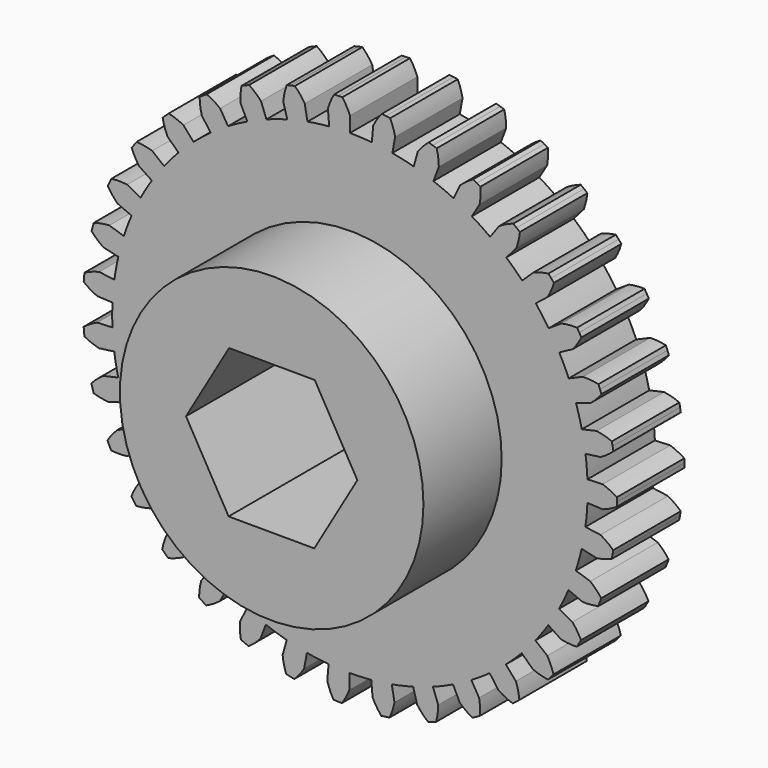
from build123d import *

# Parameters (mm, degrees)
F1_DEPTH = 6.35
F2_R     = 11.43
F3_DEPTH = 7.366
F5_DEPTH = 50.8


with BuildPart() as f1:
    # F0 (on Front) → F1 (new body)
    with BuildSketch(Plane.XZ):
        with BuildLine():
            ThreePointArc((0, 19.05), (-0.247725, 19.590682), (-0.560906, 20.096274))
            ThreePointArc((-0.560906, 20.096274), (-0.71894, 20.091241), (-0.876929, 20.084965))
            ThreePointArc((-0.876929, 20.084965), (-1.034863, 20.077447), (-1.192734, 20.068688))
            ThreePointArc((-1.192734, 20.068688), (-1.460658, 19.537725), (-1.660317, 18.977509))
            Line((-1.660317, 18.977509), (-1.560188, 17.833025))
            ThreePointArc((-1.560188, 17.833025), (-2.380812, 17.742117), (-3.196373, 17.613466))
            Line((-3.196373, 17.613466), (-3.401509, 18.743859))
            ThreePointArc((-3.401509, 18.743859), (-3.741795, 19.231619), (-4.14022, 19.673165))
            ThreePointArc((-4.14022, 19.673165), (-4.294815, 19.639995), (-4.449145, 19.60561))
            ThreePointArc((-4.449145, 19.60561), (-4.603199, 19.570013), (-4.756969, 19.533205))
            ThreePointArc((-4.756969, 19.533205), (-4.92578, 18.962935), (-5.0222, 18.376072))
            Line((-5.0222, 18.376072), (-4.719324, 17.267859))
            ThreePointArc((-4.719324, 17.267859), (-5.510529, 17.031883), (-6.290011, 16.759676))
            Line((-6.290011, 16.759676), (-6.69369, 17.835274))
            ThreePointArc((-6.69369, 17.835274), (-7.115601, 18.254436), (-7.586464, 18.617744))
            ThreePointArc((-7.586464, 18.617744), (-7.732653, 18.557503), (-7.878362, 18.496114))
            ThreePointArc((-7.878362, 18.496114), (-8.023585, 18.433581), (-8.168311, 18.369908))
            ThreePointArc((-8.168311, 18.369908), (-8.232584, 17.778661), (-8.222665, 17.184012))
            Line((-8.222665, 17.184012), (-7.726778, 16.147689))
            ThreePointArc((-7.726778, 16.147689), (-8.463133, 15.774231), (-9.181484, 15.367216))
            Line((-9.181484, 15.367216), (-9.770731, 16.35345))
            ThreePointArc((-9.770731, 16.35345), (-10.260706, 16.69054), (-10.788873, 16.963934))
            ThreePointArc((-10.788873, 16.963934), (-10.921956, 16.878558), (-11.054362, 16.792138))
            ThreePointArc((-11.054362, 16.792138), (-11.186085, 16.70468), (-11.317116, 16.616188))
            ThreePointArc((-11.317116, 16.616188), (-11.274785, 16.022966), (-11.158848, 15.439644))
            Line((-11.158848, 15.439644), (-10.485887, 14.50852))
            ThreePointArc((-10.485887, 14.50852), (-11.143724, 14.009582), (-11.777856, 13.480841))
            Line((-11.777856, 13.480841), (-12.533733, 14.346011))
            ThreePointArc((-12.533733, 14.346011), (-13.076023, 14.590196), (-13.644519, 14.764889))
            ThreePointArc((-13.644519, 14.764889), (-13.760218, 14.657122), (-13.875066, 14.548449))
            ThreePointArc((-13.875066, 14.548449), (-13.989056, 14.438876), (-14.102181, 14.32841))
            ThreePointArc((-14.102181, 14.32841), (-13.954606, 13.752279), (-13.736375, 13.199034))
            Line((-13.736375, 13.199034), (-12.907971, 12.403035))
            ThreePointArc((-12.907971, 12.403035), (-13.466148, 11.794653), (-13.995678, 11.161181))
            Line((-13.995678, 11.161181), (-14.89389, 11.877481))
            ThreePointArc((-14.89389, 11.877481), (-15.471066, 12.020911), (-16.061619, 12.091288))
            ThreePointArc((-16.061619, 12.091288), (-16.156216, 11.964594), (-16.249814, 11.837161))
            ThreePointArc((-16.249814, 11.837161), (-16.342407, 11.708995), (-16.433989, 11.580105))
            ThreePointArc((-16.433989, 11.580105), (-16.185914, 11.039584), (-15.872405, 10.534195))
            Line((-15.872405, 10.534195), (-14.915182, 9.898906))
            ThreePointArc((-14.915182, 9.898906), (-15.355758, 9.200635), (-15.763668, 8.482791))
            Line((-15.763668, 8.482791), (-16.775345, 9.027198))
            ThreePointArc((-16.775345, 9.027198), (-17.368856, 9.065265), (-17.962485, 9.029063))
            ThreePointArc((-17.962485, 9.029063), (-18.03294, 8.887515), (-18.10228, 8.745416))
            ThreePointArc((-18.10228, 8.745416), (-18.1705, 8.602777), (-18.237596, 8.459606))
            ThreePointArc((-18.237596, 8.459606), (-17.896993, 7.972066), (-17.498282, 7.530779))
            Line((-17.498282, 7.530779), (-16.443006, 7.076618))
            ThreePointArc((-16.443006, 7.076618), (-16.751821, 6.3109), (-17.025, 5.531758))
            Line((-17.025, 5.531758), (-18.117627, 5.886774))
            ThreePointArc((-18.117627, 5.886774), (-18.708397, 5.818253), (-19.286022, 5.676637))
            ThreePointArc((-19.286022, 5.676637), (-19.33007, 5.524783), (-19.372923, 5.372587))
            ThreePointArc((-19.372923, 5.372587), (-19.414578, 5.220059), (-19.455031, 5.067208))
            ThreePointArc((-19.455031, 5.067208), (-19.032848, 4.648321), (-18.56175, 4.285318))
            Line((-18.56175, 4.285318), (-17.442339, 4.026881))
            ThreePointArc((-17.442339, 4.026881), (-17.609467, 3.218328), (-17.739135, 2.402929))
            Line((-17.739135, 2.402929), (-18.877593, 2.557144))
            ThreePointArc((-18.877593, 2.557144), (-19.446635, 2.384238), (-19.98969, 2.141759))
            ThreePointArc((-19.98969, 2.141759), (-20.005916, 1.98448), (-20.020905, 1.827078))
            ThreePointArc((-20.020905, 1.827078), (-20.034655, 1.669564), (-20.047166, 1.511946))
            ThreePointArc((-20.047166, 1.511946), (-19.556972, 1.175174), (-19.028628, 0.902122))
            Line((-19.028628, 0.902122), (-17.881061, 0.847718))
            ThreePointArc((-17.881061, 0.847718), (-17.901131, 0.022317), (-17.883119, -0.803132))
            Line((-17.883119, -0.803132), (-19.030818, -0.854675))
            ThreePointArc((-19.030818, -0.854675), (-19.559842, -1.126408), (-20.050873, -1.461957))
            ThreePointArc((-20.050873, -1.461957), (-20.038755, -1.619606), (-20.025398, -1.777154))
            ThreePointArc((-20.025398, -1.777154), (-20.010802, -1.934593), (-19.994968, -2.091911))
            ThreePointArc((-19.994968, -2.091911), (-19.452519, -2.335744), (-18.88391, -2.510068))
            Line((-18.88391, -2.510068), (-17.745071, -2.358692))
            ThreePointArc((-17.745071, -2.358692), (-17.617437, -3.174412), (-17.452325, -3.983379))
            Line((-17.452325, -3.983379), (-18.572377, -4.239024))
            ThreePointArc((-18.572377, -4.239024), (-19.044379, -4.600851), (-19.467605, -5.018685))
            ThreePointArc((-19.467605, -5.018685), (-19.427532, -5.171636), (-19.386258, -5.324267))
            ThreePointArc((-19.386258, -5.324267), (-19.343785, -5.476569), (-19.300115, -5.628533))
            ThreePointArc((-19.300115, -5.628533), (-18.722846, -5.771589), (-18.132248, -5.841582))
            Line((-18.132248, -5.841582), (-17.03874, -5.489292))
            ThreePointArc((-17.03874, -5.489292), (-16.767504, -6.269113), (-16.460599, -7.035598))
            Line((-16.460599, -7.035598), (-17.517004, -7.487127))
            ThreePointArc((-17.517004, -7.487127), (-17.916814, -7.927419), (-18.258632, -8.414107))
            ThreePointArc((-18.258632, -8.414107), (-18.191893, -8.557445), (-18.124029, -8.700254))
            ThreePointArc((-18.124029, -8.700254), (-18.055043, -8.842525), (-17.984941, -8.984249))
            ThreePointArc((-17.984941, -8.984249), (-17.391405, -9.02193), (-16.7978, -8.985344))
            Line((-16.7978, -8.985344), (-15.784769, -8.443461))
            ThreePointArc((-15.784769, -8.443461), (-15.37865, -9.162319), (-14.939816, -9.861686))
            Line((-14.939816, -9.861686), (-15.89862, -10.494587))
            ThreePointArc((-15.89862, -10.494587), (-16.213389, -10.999192), (-16.462811, -11.539094))
            ThreePointArc((-16.462811, -11.539094), (-16.371551, -11.668212), (-16.279278, -11.796608))
            ThreePointArc((-16.279278, -11.796608), (-16.185998, -11.924274), (-16.091716, -12.051203))
            ThreePointArc((-16.091716, -12.051203), (-15.50099, -11.9823), (-14.923458, -11.840308))
            Line((-14.923458, -11.840308), (-14.023463, -11.126251))
            ThreePointArc((-14.023463, -11.126251), (-13.495514, -11.761041), (-12.938855, -12.370812))
            Line((-12.938855, -12.370812), (-13.769242, -13.164743))
            ThreePointArc((-13.769242, -13.164743), (-13.988851, -13.717443), (-14.137862, -14.293204))
            ThreePointArc((-14.137862, -14.293204), (-14.025014, -14.403952), (-13.911297, -14.513809))
            ThreePointArc((-13.911297, -14.513809), (-13.796721, -14.622768), (-13.68129, -14.730822))
            ThreePointArc((-13.68129, -14.730822), (-13.112361, -14.557548), (-12.569463, -14.314716))
            Line((-12.569463, -14.314716), (-11.811432, -13.451433))
            ThreePointArc((-11.811432, -13.451433), (-11.17862, -13.981753), (-10.522029, -14.48233))
            Line((-10.522029, -14.48233), (-11.197309, -15.411774))
            ThreePointArc((-11.197309, -15.411774), (-11.3147, -15.994804), (-11.358511, -16.587919))
            ThreePointArc((-11.358511, -16.587919), (-11.227701, -16.676737), (-11.096196, -16.764524))
            ThreePointArc((-11.096196, -16.764524), (-10.964006, -16.851274), (-10.831137, -16.936981))
            ThreePointArc((-10.831137, -16.936981), (-10.302289, -16.664904), (-9.811475, -16.329037))
            Line((-9.811475, -16.329037), (-9.219771, -15.344276))
            ThreePointArc((-9.219771, -15.344276), (-8.502437, -15.75308), (-7.767015, -16.128374))
            Line((-7.767015, -16.128374), (-8.265485, -17.163457))
            ThreePointArc((-8.265485, -17.163457), (-8.276886, -17.758079), (-8.214088, -18.349485))
            ThreePointArc((-8.214088, -18.349485), (-8.069521, -18.413519), (-7.924455, -18.476414))
            ThreePointArc((-7.924455, -18.476414), (-7.778898, -18.538165), (-7.632861, -18.598771))
            ThreePointArc((-7.632861, -18.598771), (-7.161094, -18.236637), (-6.738139, -17.818529))
            Line((-6.738139, -17.818529), (-6.331779, -16.74394))
            ThreePointArc((-6.331779, -16.74394), (-5.552978, -17.018091), (-4.762364, -17.256038))
            Line((-4.762364, -17.256038), (-5.068002, -18.363492))
            ThreePointArc((-5.068002, -18.363492), (-4.973046, -18.950594), (-4.805657, -19.521283))
            ThreePointArc((-4.805657, -19.521283), (-4.651979, -19.558475), (-4.498014, -19.594456))
            ThreePointArc((-4.498014, -19.594456), (-4.343771, -19.629225), (-4.189259, -19.662781))
            ThreePointArc((-4.189259, -19.662781), (-3.789734, -19.22223), (-3.448233, -18.735319))
            Line((-3.448233, -18.735319), (-3.240279, -17.605441))
            ThreePointArc((-3.240279, -17.605441), (-2.425042, -17.736125), (-1.604646, -17.82908))
            Line((-1.604646, -17.82908), (-1.707629, -18.97331))
            ThreePointArc((-1.707629, -18.97331), (-1.509367, -19.534022), (-1.242768, -20.065651))
            ThreePointArc((-1.242768, -20.065651), (-1.08492, -20.074805), (-0.927004, -20.082716))
            ThreePointArc((-0.927004, -20.082716), (-0.769031, -20.089386), (-0.611011, -20.094813))
            ThreePointArc((-0.611011, -20.094813), (-0.29657, -19.590004), (-0.047498, -19.049941))
            Line((-0.047498, -19.049941), (-0.044633, -17.901089))
            ThreePointArc((-0.044633, -17.901089), (0.780837, -17.884107), (1.604646, -17.82908))
            Line((1.604646, -17.82908), (1.707629, -18.97331))
            ThreePointArc((1.707629, -18.97331), (2.002823, -19.48961), (2.360064, -19.965093))
            ThreePointArc((2.360064, -19.965093), (2.51701, -19.945914), (2.673801, -19.925502))
            ThreePointArc((2.673801, -19.925502), (2.830426, -19.903857), (2.986876, -19.880981))
            ThreePointArc((2.986876, -19.880981), (3.206126, -19.328139), (3.354764, -18.752281))
            Line((3.354764, -18.752281), (3.152447, -17.621381))
            ThreePointArc((3.152447, -17.621381), (3.961619, -17.457278), (4.762364, -17.256038))
            Line((4.762364, -17.256038), (5.068002, -18.363492))
            ThreePointArc((5.068002, -18.363492), (5.450641, -18.818786), (5.887042, -19.22284))
            ThreePointArc((5.887042, -19.22284), (6.038041, -19.175946), (6.188667, -19.127865))
            ThreePointArc((6.188667, -19.127865), (6.338911, -19.078602), (6.488762, -19.028158))
            ThreePointArc((6.488762, -19.028158), (6.605775, -18.445052), (6.6492, -17.851908))
            Line((6.6492, -17.851908), (6.248205, -16.775307))
            ThreePointArc((6.248205, -16.775307), (7.015072, -16.469358), (7.767015, -16.128374))
            Line((7.767015, -16.128374), (8.265485, -17.163457))
            ThreePointArc((8.265485, -17.163457), (8.723271, -17.543111), (9.224805, -17.862749))
            ThreePointArc((9.224805, -17.862749), (9.365005, -17.789646), (9.504625, -17.715443))
            ThreePointArc((9.504625, -17.715443), (9.643658, -17.640145), (9.782093, -17.563755))
            ThreePointArc((9.782093, -17.563755), (9.793108, -16.969126), (9.729926, -16.37776))
            Line((9.729926, -16.37776), (9.14314, -15.39006))
            ThreePointArc((9.14314, -15.39006), (9.843054, -14.952099), (10.522029, -14.48233))
            Line((10.522029, -14.48233), (11.197309, -15.411774))
            ThreePointArc((11.197309, -15.411774), (11.715528, -15.703586), (12.266076, -15.928535))
            ThreePointArc((12.266076, -15.928535), (12.390969, -15.831573), (12.515097, -15.733633))
            ThreePointArc((12.515097, -15.733633), (12.638449, -15.634719), (12.761021, -15.534838))
            ThreePointArc((12.761021, -15.534838), (12.665684, -14.947798), (12.497925, -14.377218))
            Line((12.497925, -14.377218), (11.744207, -13.510165))
            ThreePointArc((11.744207, -13.510165), (12.354672, -12.954267), (12.938855, -12.370812))
            Line((12.938855, -12.370812), (13.769242, -13.164743))
            ThreePointArc((13.769242, -13.164743), (14.331238, -13.359334), (14.913105, -13.482364))
            ThreePointArc((14.913105, -13.482364), (15.018678, -13.36466), (15.123322, -13.24613))
            ThreePointArc((15.123322, -13.24613), (15.227031, -13.12678), (15.329798, -13.006618))
            ThreePointArc((15.329798, -13.006618), (15.131173, -12.446036), (14.864229, -11.914579))
            Line((14.864229, -11.914579), (13.967806, -11.196042))
            ThreePointArc((13.967806, -11.196042), (14.469201, -10.540075), (14.939816, -9.861686))
            Line((14.939816, -9.861686), (15.89862, -10.494587))
            ThreePointArc((15.89862, -10.494587), (16.48633, -10.585703), (17.080814, -10.602859))
            ThreePointArc((17.080814, -10.602859), (17.163674, -10.468196), (17.245472, -10.332886))
            ThreePointArc((17.245472, -10.332886), (17.326204, -10.196936), (17.405863, -10.060356))
            ThreePointArc((17.405863, -10.060356), (17.110334, -9.544247), (16.752785, -9.068996))
            Line((16.752785, -9.068996), (15.742468, -8.522069))
            ThreePointArc((15.742468, -8.522069), (16.118678, -7.787116), (16.460599, -7.035598))
            Line((16.460599, -7.035598), (17.517004, -7.487127))
            ThreePointArc((17.517004, -7.487127), (18.111539, -7.471838), (18.699532, -7.38257))
            ThreePointArc((18.699532, -7.38257), (18.757015, -7.235276), (18.813338, -7.087534))
            ThreePointArc((18.813338, -7.087534), (18.868498, -6.939354), (18.92249, -6.790745))
            ThreePointArc((18.92249, -6.790745), (18.539556, -6.335699), (18.102893, -5.931929))
            Line((18.102893, -5.931929), (17.011155, -5.57419))
            ThreePointArc((17.011155, -5.57419), (17.250088, -4.783873), (17.452325, -3.983379))
            Line((17.452325, -3.983379), (18.572377, -4.239024))
            ThreePointArc((18.572377, -4.239024), (19.154627, -4.117823), (19.717232, -3.924999))
            ThreePointArc((19.717232, -3.924999), (19.747491, -3.769807), (19.776528, -3.614383))
            ThreePointArc((19.776528, -3.614383), (19.804343, -3.458735), (19.830932, -3.302873))
            ThreePointArc((19.830932, -3.302873), (19.3729, -2.923516), (18.871158, -2.604204))
            Line((18.871158, -2.604204), (17.733088, -2.447151))
            ThreePointArc((17.733088, -2.447151), (17.827065, -1.626872), (17.883119, -0.803132))
            Line((17.883119, -0.803132), (19.030818, -0.854675))
            ThreePointArc((19.030818, -0.854675), (19.58207, -0.631457), (20.101203, -0.341275))
            ThreePointArc((20.101203, -0.341275), (20.103266, -0.183175), (20.104084, -0.025063))
            ThreePointArc((20.104084, -0.025063), (20.10366, 0.13305), (20.101992, 0.291155))
            ThreePointArc((20.101992, 0.291155), (19.583584, 0.582631), (19.03289, 0.807222))
            Line((19.03289, 0.807222), (17.885066, 0.758541))
            ThreePointArc((17.885066, 0.758541), (17.831066, 1.582418), (17.739135, 2.402929))
            Line((17.739135, 2.402929), (18.877593, 2.557144))
            ThreePointArc((18.877593, 2.557144), (19.380129, 2.875204), (19.839105, 3.253418))
            ThreePointArc((19.839105, 3.253418), (19.812905, 3.409346), (19.785479, 3.565063))
            ThreePointArc((19.785479, 3.565063), (19.756829, 3.720559), (19.726957, 3.875825))
            ThreePointArc((19.726957, 3.875825), (19.164835, 4.070051), (18.582888, 4.192704))
            Line((18.582888, 4.192704), (17.462203, 3.939853))
            ThreePointArc((17.462203, 3.939853), (17.261962, 4.740848), (17.025, 5.531758))
            Line((17.025, 5.531758), (18.117627, 5.886774))
            ThreePointArc((18.117627, 5.886774), (18.555295, 6.289454), (18.939363, 6.743543))
            ThreePointArc((18.939363, 6.743543), (18.885741, 6.892287), (18.830951, 7.040604))
            ThreePointArc((18.830951, 7.040604), (18.774997, 7.188486), (18.717881, 7.335923))
            ThreePointArc((18.717881, 7.335923), (18.130112, 7.426657), (17.535617, 7.443428))
            Line((17.535617, 7.443428), (16.47809, 6.994534))
            ThreePointArc((16.47809, 6.994534), (16.138044, 7.746903), (15.763668, 8.482791))
            Line((15.763668, 8.482791), (16.775345, 9.027198))
            ThreePointArc((16.775345, 9.027198), (17.134078, 9.501556), (17.430893, 10.016926))
            ThreePointArc((17.430893, 10.016926), (17.351574, 10.153704), (17.271182, 10.289855))
            ThreePointArc((17.271182, 10.289855), (17.189721, 10.425369), (17.107197, 10.560238))
            ThreePointArc((17.107197, 10.560238), (16.512673, 10.544564), (15.924737, 10.454914))
            Line((15.924737, 10.454914), (14.964358, 9.824406))
            ThreePointArc((14.964358, 9.824406), (14.495436, 10.503966), (13.995678, 11.161181))
            Line((13.995678, 11.161181), (14.89389, 11.877481))
            ThreePointArc((14.89389, 11.877481), (15.162158, 12.40827), (15.36218, 12.968356))
            ThreePointArc((15.36218, 12.968356), (15.259713, 13.088773), (15.156302, 13.208381))
            ThreePointArc((15.156302, 13.208381), (15.051954, 13.327172), (14.946674, 13.445139))
            ThreePointArc((14.946674, 13.445139), (14.364503, 13.32356), (13.802023, 13.130371))
            Line((13.802023, 13.130371), (12.969659, 12.338513))
            ThreePointArc((12.969659, 12.338513), (12.386933, 12.923423), (11.777856, 13.480841))
            Line((11.777856, 13.480841), (12.533733, 14.346011))
            ThreePointArc((12.533733, 14.346011), (12.702914, 14.916172), (12.799714, 15.502972))
            ThreePointArc((12.799714, 15.502972), (12.677393, 15.603158), (12.554287, 15.70238))
            ThreePointArc((12.554287, 15.70238), (12.430404, 15.800629), (12.305753, 15.897902))
            ThreePointArc((12.305753, 15.897902), (11.754646, 15.674326), (11.235701, 15.383807))
            Line((11.235701, 15.383807), (10.558105, 14.45605))
            ThreePointArc((10.558105, 14.45605), (9.880304, 14.927511), (9.181484, 15.367216))
            Line((9.181484, 15.367216), (9.770731, 16.35345))
            ThreePointArc((9.770731, 16.35345), (9.835388, 16.944656), (9.825855, 17.53931))
            ThreePointArc((9.825855, 17.53931), (9.68761, 17.616045), (9.548766, 17.69169))
            ThreePointArc((9.548766, 17.69169), (9.409331, 17.766241), (9.269314, 17.839693))
            ThreePointArc((9.269314, 17.839693), (8.766985, 17.521307), (8.308254, 17.142795))
            Line((8.308254, 17.142795), (7.807205, 16.108958))
            ThreePointArc((7.807205, 16.108958), (7.056113, 16.451816), (6.290011, 16.759676))
            Line((6.290011, 16.759676), (6.69369, 17.835274))
            ThreePointArc((6.69369, 17.835274), (6.651744, 18.428524), (6.536185, 19.011921))
            ThreePointArc((6.536185, 19.011921), (6.38646, 19.062738), (6.23634, 19.112376))
            ThreePointArc((6.23634, 19.112376), (6.085834, 19.160831), (5.934952, 19.208102))
            ThreePointArc((5.934952, 19.208102), (5.497545, 18.805137), (5.113772, 18.350799))
            Line((5.113772, 18.350799), (4.805374, 17.244111))
            ThreePointArc((4.805374, 17.244111), (4.005133, 17.447346), (3.196373, 17.613466))
            Line((3.196373, 17.613466), (3.401509, 18.743859))
            ThreePointArc((3.401509, 18.743859), (3.254307, 19.320085), (3.036436, 19.873472))
            ThreePointArc((3.036436, 19.873472), (2.880044, 19.896738), (2.723473, 19.918773))
            ThreePointArc((2.723473, 19.918773), (2.566734, 19.939577), (2.409836, 19.959146))
            ThreePointArc((2.409836, 19.959146), (2.051411, 19.484556), (1.75493, 18.968994))
            Line((1.75493, 18.968994), (1.649095, 17.825023))
            ThreePointArc((1.649095, 17.825023), (0.825425, 17.882104), (0, 17.901144))
            Line((0, 17.901144), (0, 19.05))
        make_face()
        with BuildLine():
            ThreePointArc((0, 19.05), (-0.247725, 19.590682), (-0.560906, 20.096274))
            ThreePointArc((-0.560906, 20.096274), (-0.71894, 20.091241), (-0.876929, 20.084965))
            ThreePointArc((-0.876929, 20.084965), (-1.034863, 20.077447), (-1.192734, 20.068688))
            ThreePointArc((-1.192734, 20.068688), (-1.460658, 19.537725), (-1.660317, 18.977509))
            Line((-1.660317, 18.977509), (-1.560188, 17.833025))
            ThreePointArc((-1.560188, 17.833025), (-2.380812, 17.742117), (-3.196373, 17.613466))
            Line((-3.196373, 17.613466), (-3.401509, 18.743859))
            ThreePointArc((-3.401509, 18.743859), (-3.741795, 19.231619), (-4.14022, 19.673165))
            ThreePointArc((-4.14022, 19.673165), (-4.294815, 19.639995), (-4.449145, 19.60561))
            ThreePointArc((-4.449145, 19.60561), (-4.603199, 19.570013), (-4.756969, 19.533205))
            ThreePointArc((-4.756969, 19.533205), (-4.92578, 18.962935), (-5.0222, 18.376072))
            Line((-5.0222, 18.376072), (-4.719324, 17.267859))
            ThreePointArc((-4.719324, 17.267859), (-5.510529, 17.031883), (-6.290011, 16.759676))
            Line((-6.290011, 16.759676), (-6.69369, 17.835274))
            ThreePointArc((-6.69369, 17.835274), (-7.115601, 18.254436), (-7.586464, 18.617744))
            ThreePointArc((-7.586464, 18.617744), (-7.732653, 18.557503), (-7.878362, 18.496114))
            ThreePointArc((-7.878362, 18.496114), (-8.023585, 18.433581), (-8.168311, 18.369908))
            ThreePointArc((-8.168311, 18.369908), (-8.232584, 17.778661), (-8.222665, 17.184012))
            Line((-8.222665, 17.184012), (-7.726778, 16.147689))
            ThreePointArc((-7.726778, 16.147689), (-8.463133, 15.774231), (-9.181484, 15.367216))
            Line((-9.181484, 15.367216), (-9.770731, 16.35345))
            ThreePointArc((-9.770731, 16.35345), (-10.260706, 16.69054), (-10.788873, 16.963934))
            ThreePointArc((-10.788873, 16.963934), (-10.921956, 16.878558), (-11.054362, 16.792138))
            ThreePointArc((-11.054362, 16.792138), (-11.186085, 16.70468), (-11.317116, 16.616188))
            ThreePointArc((-11.317116, 16.616188), (-11.274785, 16.022966), (-11.158848, 15.439644))
            Line((-11.158848, 15.439644), (-10.485887, 14.50852))
            ThreePointArc((-10.485887, 14.50852), (-11.143724, 14.009582), (-11.777856, 13.480841))
            Line((-11.777856, 13.480841), (-12.533733, 14.346011))
            ThreePointArc((-12.533733, 14.346011), (-13.076023, 14.590196), (-13.644519, 14.764889))
            ThreePointArc((-13.644519, 14.764889), (-13.760218, 14.657122), (-13.875066, 14.548449))
            ThreePointArc((-13.875066, 14.548449), (-13.989056, 14.438876), (-14.102181, 14.32841))
            ThreePointArc((-14.102181, 14.32841), (-13.954606, 13.752279), (-13.736375, 13.199034))
            Line((-13.736375, 13.199034), (-12.907971, 12.403035))
            ThreePointArc((-12.907971, 12.403035), (-13.466148, 11.794653), (-13.995678, 11.161181))
            Line((-13.995678, 11.161181), (-14.89389, 11.877481))
            ThreePointArc((-14.89389, 11.877481), (-15.471066, 12.020911), (-16.061619, 12.091288))
            ThreePointArc((-16.061619, 12.091288), (-16.156216, 11.964594), (-16.249814, 11.837161))
            ThreePointArc((-16.249814, 11.837161), (-16.342407, 11.708995), (-16.433989, 11.580105))
            ThreePointArc((-16.433989, 11.580105), (-16.185914, 11.039584), (-15.872405, 10.534195))
            Line((-15.872405, 10.534195), (-14.915182, 9.898906))
            ThreePointArc((-14.915182, 9.898906), (-15.355758, 9.200635), (-15.763668, 8.482791))
            Line((-15.763668, 8.482791), (-16.775345, 9.027198))
            ThreePointArc((-16.775345, 9.027198), (-17.368856, 9.065265), (-17.962485, 9.029063))
            ThreePointArc((-17.962485, 9.029063), (-18.03294, 8.887515), (-18.10228, 8.745416))
            ThreePointArc((-18.10228, 8.745416), (-18.1705, 8.602777), (-18.237596, 8.459606))
            ThreePointArc((-18.237596, 8.459606), (-17.896993, 7.972066), (-17.498282, 7.530779))
            Line((-17.498282, 7.530779), (-16.443006, 7.076618))
            ThreePointArc((-16.443006, 7.076618), (-16.751821, 6.3109), (-17.025, 5.531758))
            Line((-17.025, 5.531758), (-18.117627, 5.886774))
            ThreePointArc((-18.117627, 5.886774), (-18.708397, 5.818253), (-19.286022, 5.676637))
            ThreePointArc((-19.286022, 5.676637), (-19.33007, 5.524783), (-19.372923, 5.372587))
            ThreePointArc((-19.372923, 5.372587), (-19.414578, 5.220059), (-19.455031, 5.067208))
            ThreePointArc((-19.455031, 5.067208), (-19.032848, 4.648321), (-18.56175, 4.285318))
            Line((-18.56175, 4.285318), (-17.442339, 4.026881))
            ThreePointArc((-17.442339, 4.026881), (-17.609467, 3.218328), (-17.739135, 2.402929))
            Line((-17.739135, 2.402929), (-18.877593, 2.557144))
            ThreePointArc((-18.877593, 2.557144), (-19.446635, 2.384238), (-19.98969, 2.141759))
            ThreePointArc((-19.98969, 2.141759), (-20.005916, 1.98448), (-20.020905, 1.827078))
            ThreePointArc((-20.020905, 1.827078), (-20.034655, 1.669564), (-20.047166, 1.511946))
            ThreePointArc((-20.047166, 1.511946), (-19.556972, 1.175174), (-19.028628, 0.902122))
            Line((-19.028628, 0.902122), (-17.881061, 0.847718))
            ThreePointArc((-17.881061, 0.847718), (-17.901131, 0.022317), (-17.883119, -0.803132))
            Line((-17.883119, -0.803132), (-19.030818, -0.854675))
            ThreePointArc((-19.030818, -0.854675), (-19.559842, -1.126408), (-20.050873, -1.461957))
            ThreePointArc((-20.050873, -1.461957), (-20.038755, -1.619606), (-20.025398, -1.777154))
            ThreePointArc((-20.025398, -1.777154), (-20.010802, -1.934593), (-19.994968, -2.091911))
            ThreePointArc((-19.994968, -2.091911), (-19.452519, -2.335744), (-18.88391, -2.510068))
            Line((-18.88391, -2.510068), (-17.745071, -2.358692))
            ThreePointArc((-17.745071, -2.358692), (-17.617437, -3.174412), (-17.452325, -3.983379))
            Line((-17.452325, -3.983379), (-18.572377, -4.239024))
            ThreePointArc((-18.572377, -4.239024), (-19.044379, -4.600851), (-19.467605, -5.018685))
            ThreePointArc((-19.467605, -5.018685), (-19.427532, -5.171636), (-19.386258, -5.324267))
            ThreePointArc((-19.386258, -5.324267), (-19.343785, -5.476569), (-19.300115, -5.628533))
            ThreePointArc((-19.300115, -5.628533), (-18.722846, -5.771589), (-18.132248, -5.841582))
            Line((-18.132248, -5.841582), (-17.03874, -5.489292))
            ThreePointArc((-17.03874, -5.489292), (-16.767504, -6.269113), (-16.460599, -7.035598))
            Line((-16.460599, -7.035598), (-17.517004, -7.487127))
            ThreePointArc((-17.517004, -7.487127), (-17.916814, -7.927419), (-18.258632, -8.414107))
            ThreePointArc((-18.258632, -8.414107), (-18.191893, -8.557445), (-18.124029, -8.700254))
            ThreePointArc((-18.124029, -8.700254), (-18.055043, -8.842525), (-17.984941, -8.984249))
            ThreePointArc((-17.984941, -8.984249), (-17.391405, -9.02193), (-16.7978, -8.985344))
            Line((-16.7978, -8.985344), (-15.784769, -8.443461))
            ThreePointArc((-15.784769, -8.443461), (-15.37865, -9.162319), (-14.939816, -9.861686))
            Line((-14.939816, -9.861686), (-15.89862, -10.494587))
            ThreePointArc((-15.89862, -10.494587), (-16.213389, -10.999192), (-16.462811, -11.539094))
            ThreePointArc((-16.462811, -11.539094), (-16.371551, -11.668212), (-16.279278, -11.796608))
            ThreePointArc((-16.279278, -11.796608), (-16.185998, -11.924274), (-16.091716, -12.051203))
            ThreePointArc((-16.091716, -12.051203), (-15.50099, -11.9823), (-14.923458, -11.840308))
            Line((-14.923458, -11.840308), (-14.023463, -11.126251))
            ThreePointArc((-14.023463, -11.126251), (-13.495514, -11.761041), (-12.938855, -12.370812))
            Line((-12.938855, -12.370812), (-13.769242, -13.164743))
            ThreePointArc((-13.769242, -13.164743), (-13.988851, -13.717443), (-14.137862, -14.293204))
            ThreePointArc((-14.137862, -14.293204), (-14.025014, -14.403952), (-13.911297, -14.513809))
            ThreePointArc((-13.911297, -14.513809), (-13.796721, -14.622768), (-13.68129, -14.730822))
            ThreePointArc((-13.68129, -14.730822), (-13.112361, -14.557548), (-12.569463, -14.314716))
            Line((-12.569463, -14.314716), (-11.811432, -13.451433))
            ThreePointArc((-11.811432, -13.451433), (-11.17862, -13.981753), (-10.522029, -14.48233))
            Line((-10.522029, -14.48233), (-11.197309, -15.411774))
            ThreePointArc((-11.197309, -15.411774), (-11.3147, -15.994804), (-11.358511, -16.587919))
            ThreePointArc((-11.358511, -16.587919), (-11.227701, -16.676737), (-11.096196, -16.764524))
            ThreePointArc((-11.096196, -16.764524), (-10.964006, -16.851274), (-10.831137, -16.936981))
            ThreePointArc((-10.831137, -16.936981), (-10.302289, -16.664904), (-9.811475, -16.329037))
            Line((-9.811475, -16.329037), (-9.219771, -15.344276))
            ThreePointArc((-9.219771, -15.344276), (-8.502437, -15.75308), (-7.767015, -16.128374))
            Line((-7.767015, -16.128374), (-8.265485, -17.163457))
            ThreePointArc((-8.265485, -17.163457), (-8.276886, -17.758079), (-8.214088, -18.349485))
            ThreePointArc((-8.214088, -18.349485), (-8.069521, -18.413519), (-7.924455, -18.476414))
            ThreePointArc((-7.924455, -18.476414), (-7.778898, -18.538165), (-7.632861, -18.598771))
            ThreePointArc((-7.632861, -18.598771), (-7.161094, -18.236637), (-6.738139, -17.818529))
            Line((-6.738139, -17.818529), (-6.331779, -16.74394))
            ThreePointArc((-6.331779, -16.74394), (-5.552978, -17.018091), (-4.762364, -17.256038))
            Line((-4.762364, -17.256038), (-5.068002, -18.363492))
            ThreePointArc((-5.068002, -18.363492), (-4.973046, -18.950594), (-4.805657, -19.521283))
            ThreePointArc((-4.805657, -19.521283), (-4.651979, -19.558475), (-4.498014, -19.594456))
            ThreePointArc((-4.498014, -19.594456), (-4.343771, -19.629225), (-4.189259, -19.662781))
            ThreePointArc((-4.189259, -19.662781), (-3.789734, -19.22223), (-3.448233, -18.735319))
            Line((-3.448233, -18.735319), (-3.240279, -17.605441))
            ThreePointArc((-3.240279, -17.605441), (-2.425042, -17.736125), (-1.604646, -17.82908))
            Line((-1.604646, -17.82908), (-1.707629, -18.97331))
            ThreePointArc((-1.707629, -18.97331), (-1.509367, -19.534022), (-1.242768, -20.065651))
            ThreePointArc((-1.242768, -20.065651), (-1.08492, -20.074805), (-0.927004, -20.082716))
            ThreePointArc((-0.927004, -20.082716), (-0.769031, -20.089386), (-0.611011, -20.094813))
            ThreePointArc((-0.611011, -20.094813), (-0.29657, -19.590004), (-0.047498, -19.049941))
            Line((-0.047498, -19.049941), (-0.044633, -17.901089))
            ThreePointArc((-0.044633, -17.901089), (0.780837, -17.884107), (1.604646, -17.82908))
            Line((1.604646, -17.82908), (1.707629, -18.97331))
            ThreePointArc((1.707629, -18.97331), (2.002823, -19.48961), (2.360064, -19.965093))
            ThreePointArc((2.360064, -19.965093), (2.51701, -19.945914), (2.673801, -19.925502))
            ThreePointArc((2.673801, -19.925502), (2.830426, -19.903857), (2.986876, -19.880981))
            ThreePointArc((2.986876, -19.880981), (3.206126, -19.328139), (3.354764, -18.752281))
            Line((3.354764, -18.752281), (3.152447, -17.621381))
            ThreePointArc((3.152447, -17.621381), (3.961619, -17.457278), (4.762364, -17.256038))
            Line((4.762364, -17.256038), (5.068002, -18.363492))
            ThreePointArc((5.068002, -18.363492), (5.450641, -18.818786), (5.887042, -19.22284))
            ThreePointArc((5.887042, -19.22284), (6.038041, -19.175946), (6.188667, -19.127865))
            ThreePointArc((6.188667, -19.127865), (6.338911, -19.078602), (6.488762, -19.028158))
            ThreePointArc((6.488762, -19.028158), (6.605775, -18.445052), (6.6492, -17.851908))
            Line((6.6492, -17.851908), (6.248205, -16.775307))
            ThreePointArc((6.248205, -16.775307), (7.015072, -16.469358), (7.767015, -16.128374))
            Line((7.767015, -16.128374), (8.265485, -17.163457))
            ThreePointArc((8.265485, -17.163457), (8.723271, -17.543111), (9.224805, -17.862749))
            ThreePointArc((9.224805, -17.862749), (9.365005, -17.789646), (9.504625, -17.715443))
            ThreePointArc((9.504625, -17.715443), (9.643658, -17.640145), (9.782093, -17.563755))
            ThreePointArc((9.782093, -17.563755), (9.793108, -16.969126), (9.729926, -16.37776))
            Line((9.729926, -16.37776), (9.14314, -15.39006))
            ThreePointArc((9.14314, -15.39006), (9.843054, -14.952099), (10.522029, -14.48233))
            Line((10.522029, -14.48233), (11.197309, -15.411774))
            ThreePointArc((11.197309, -15.411774), (11.715528, -15.703586), (12.266076, -15.928535))
            ThreePointArc((12.266076, -15.928535), (12.390969, -15.831573), (12.515097, -15.733633))
            ThreePointArc((12.515097, -15.733633), (12.638449, -15.634719), (12.761021, -15.534838))
            ThreePointArc((12.761021, -15.534838), (12.665684, -14.947798), (12.497925, -14.377218))
            Line((12.497925, -14.377218), (11.744207, -13.510165))
            ThreePointArc((11.744207, -13.510165), (12.354672, -12.954267), (12.938855, -12.370812))
            Line((12.938855, -12.370812), (13.769242, -13.164743))
            ThreePointArc((13.769242, -13.164743), (14.331238, -13.359334), (14.913105, -13.482364))
            ThreePointArc((14.913105, -13.482364), (15.018678, -13.36466), (15.123322, -13.24613))
            ThreePointArc((15.123322, -13.24613), (15.227031, -13.12678), (15.329798, -13.006618))
            ThreePointArc((15.329798, -13.006618), (15.131173, -12.446036), (14.864229, -11.914579))
            Line((14.864229, -11.914579), (13.967806, -11.196042))
            ThreePointArc((13.967806, -11.196042), (14.469201, -10.540075), (14.939816, -9.861686))
            Line((14.939816, -9.861686), (15.89862, -10.494587))
            ThreePointArc((15.89862, -10.494587), (16.48633, -10.585703), (17.080814, -10.602859))
            ThreePointArc((17.080814, -10.602859), (17.163674, -10.468196), (17.245472, -10.332886))
            ThreePointArc((17.245472, -10.332886), (17.326204, -10.196936), (17.405863, -10.060356))
            ThreePointArc((17.405863, -10.060356), (17.110334, -9.544247), (16.752785, -9.068996))
            Line((16.752785, -9.068996), (15.742468, -8.522069))
            ThreePointArc((15.742468, -8.522069), (16.118678, -7.787116), (16.460599, -7.035598))
            Line((16.460599, -7.035598), (17.517004, -7.487127))
            ThreePointArc((17.517004, -7.487127), (18.111539, -7.471838), (18.699532, -7.38257))
            ThreePointArc((18.699532, -7.38257), (18.757015, -7.235276), (18.813338, -7.087534))
            ThreePointArc((18.813338, -7.087534), (18.868498, -6.939354), (18.92249, -6.790745))
            ThreePointArc((18.92249, -6.790745), (18.539556, -6.335699), (18.102893, -5.931929))
            Line((18.102893, -5.931929), (17.011155, -5.57419))
            ThreePointArc((17.011155, -5.57419), (17.250088, -4.783873), (17.452325, -3.983379))
            Line((17.452325, -3.983379), (18.572377, -4.239024))
            ThreePointArc((18.572377, -4.239024), (19.154627, -4.117823), (19.717232, -3.924999))
            ThreePointArc((19.717232, -3.924999), (19.747491, -3.769807), (19.776528, -3.614383))
            ThreePointArc((19.776528, -3.614383), (19.804343, -3.458735), (19.830932, -3.302873))
            ThreePointArc((19.830932, -3.302873), (19.3729, -2.923516), (18.871158, -2.604204))
            Line((18.871158, -2.604204), (17.733088, -2.447151))
            ThreePointArc((17.733088, -2.447151), (17.827065, -1.626872), (17.883119, -0.803132))
            Line((17.883119, -0.803132), (19.030818, -0.854675))
            ThreePointArc((19.030818, -0.854675), (19.58207, -0.631457), (20.101203, -0.341275))
            ThreePointArc((20.101203, -0.341275), (20.103266, -0.183175), (20.104084, -0.025063))
            ThreePointArc((20.104084, -0.025063), (20.10366, 0.13305), (20.101992, 0.291155))
            ThreePointArc((20.101992, 0.291155), (19.583584, 0.582631), (19.03289, 0.807222))
            Line((19.03289, 0.807222), (17.885066, 0.758541))
            ThreePointArc((17.885066, 0.758541), (17.831066, 1.582418), (17.739135, 2.402929))
            Line((17.739135, 2.402929), (18.877593, 2.557144))
            ThreePointArc((18.877593, 2.557144), (19.380129, 2.875204), (19.839105, 3.253418))
            ThreePointArc((19.839105, 3.253418), (19.812905, 3.409346), (19.785479, 3.565063))
            ThreePointArc((19.785479, 3.565063), (19.756829, 3.720559), (19.726957, 3.875825))
            ThreePointArc((19.726957, 3.875825), (19.164835, 4.070051), (18.582888, 4.192704))
            Line((18.582888, 4.192704), (17.462203, 3.939853))
            ThreePointArc((17.462203, 3.939853), (17.261962, 4.740848), (17.025, 5.531758))
            Line((17.025, 5.531758), (18.117627, 5.886774))
            ThreePointArc((18.117627, 5.886774), (18.555295, 6.289454), (18.939363, 6.743543))
            ThreePointArc((18.939363, 6.743543), (18.885741, 6.892287), (18.830951, 7.040604))
            ThreePointArc((18.830951, 7.040604), (18.774997, 7.188486), (18.717881, 7.335923))
            ThreePointArc((18.717881, 7.335923), (18.130112, 7.426657), (17.535617, 7.443428))
            Line((17.535617, 7.443428), (16.47809, 6.994534))
            ThreePointArc((16.47809, 6.994534), (16.138044, 7.746903), (15.763668, 8.482791))
            Line((15.763668, 8.482791), (16.775345, 9.027198))
            ThreePointArc((16.775345, 9.027198), (17.134078, 9.501556), (17.430893, 10.016926))
            ThreePointArc((17.430893, 10.016926), (17.351574, 10.153704), (17.271182, 10.289855))
            ThreePointArc((17.271182, 10.289855), (17.189721, 10.425369), (17.107197, 10.560238))
            ThreePointArc((17.107197, 10.560238), (16.512673, 10.544564), (15.924737, 10.454914))
            Line((15.924737, 10.454914), (14.964358, 9.824406))
            ThreePointArc((14.964358, 9.824406), (14.495436, 10.503966), (13.995678, 11.161181))
            Line((13.995678, 11.161181), (14.89389, 11.877481))
            ThreePointArc((14.89389, 11.877481), (15.162158, 12.40827), (15.36218, 12.968356))
            ThreePointArc((15.36218, 12.968356), (15.259713, 13.088773), (15.156302, 13.208381))
            ThreePointArc((15.156302, 13.208381), (15.051954, 13.327172), (14.946674, 13.445139))
            ThreePointArc((14.946674, 13.445139), (14.364503, 13.32356), (13.802023, 13.130371))
            Line((13.802023, 13.130371), (12.969659, 12.338513))
            ThreePointArc((12.969659, 12.338513), (12.386933, 12.923423), (11.777856, 13.480841))
            Line((11.777856, 13.480841), (12.533733, 14.346011))
            ThreePointArc((12.533733, 14.346011), (12.702914, 14.916172), (12.799714, 15.502972))
            ThreePointArc((12.799714, 15.502972), (12.677393, 15.603158), (12.554287, 15.70238))
            ThreePointArc((12.554287, 15.70238), (12.430404, 15.800629), (12.305753, 15.897902))
            ThreePointArc((12.305753, 15.897902), (11.754646, 15.674326), (11.235701, 15.383807))
            Line((11.235701, 15.383807), (10.558105, 14.45605))
            ThreePointArc((10.558105, 14.45605), (9.880304, 14.927511), (9.181484, 15.367216))
            Line((9.181484, 15.367216), (9.770731, 16.35345))
            ThreePointArc((9.770731, 16.35345), (9.835388, 16.944656), (9.825855, 17.53931))
            ThreePointArc((9.825855, 17.53931), (9.68761, 17.616045), (9.548766, 17.69169))
            ThreePointArc((9.548766, 17.69169), (9.409331, 17.766241), (9.269314, 17.839693))
            ThreePointArc((9.269314, 17.839693), (8.766985, 17.521307), (8.308254, 17.142795))
            Line((8.308254, 17.142795), (7.807205, 16.108958))
            ThreePointArc((7.807205, 16.108958), (7.056113, 16.451816), (6.290011, 16.759676))
            Line((6.290011, 16.759676), (6.69369, 17.835274))
            ThreePointArc((6.69369, 17.835274), (6.651744, 18.428524), (6.536185, 19.011921))
            ThreePointArc((6.536185, 19.011921), (6.38646, 19.062738), (6.23634, 19.112376))
            ThreePointArc((6.23634, 19.112376), (6.085834, 19.160831), (5.934952, 19.208102))
            ThreePointArc((5.934952, 19.208102), (5.497545, 18.805137), (5.113772, 18.350799))
            Line((5.113772, 18.350799), (4.805374, 17.244111))
            ThreePointArc((4.805374, 17.244111), (4.005133, 17.447346), (3.196373, 17.613466))
            Line((3.196373, 17.613466), (3.401509, 18.743859))
            ThreePointArc((3.401509, 18.743859), (3.254307, 19.320085), (3.036436, 19.873472))
            ThreePointArc((3.036436, 19.873472), (2.880044, 19.896738), (2.723473, 19.918773))
            ThreePointArc((2.723473, 19.918773), (2.566734, 19.939577), (2.409836, 19.959146))
            ThreePointArc((2.409836, 19.959146), (2.051411, 19.484556), (1.75493, 18.968994))
            Line((1.75493, 18.968994), (1.649095, 17.825023))
            ThreePointArc((1.649095, 17.825023), (0.825425, 17.882104), (0, 17.901144))
            Line((0, 17.901144), (0, 19.05))
        make_face()
    extrude(amount=F1_DEPTH)

    # F2 (on face) → F3 (join)
    with BuildSketch(Plane.XZ.offset(6.35)):
        Circle(F2_R)
    extrude(amount=F3_DEPTH)

    # F4 (on face) → F5 (cut)
    with BuildSketch(Plane.XZ.offset(13.716)):
        Polygon((3.24411, 5.57764), (-3.208323, 5.598302), (-6.452434, 0.020662), (-3.24411, -5.57764), (3.208323, -5.598302), (6.452434, -0.020662), align=None)
    extrude(amount=-F5_DEPTH, mode=Mode.SUBTRACT)


solid = f1.part
